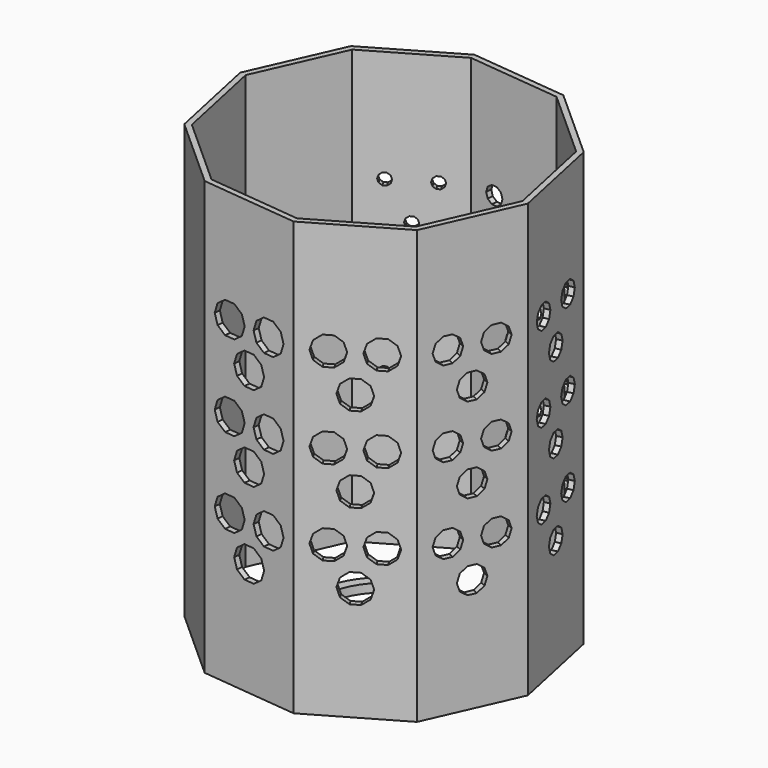
from build123d import *

# Parameters (mm, degrees)
F1_DEPTH  = 152.4
F9_DEPTH  = 2
F10_DEPTH = 2
F11_DEPTH = 2
F12_DEPTH = 2
F13_DEPTH = 2
F14_DEPTH = 2
F15_DEPTH = 25
F17_DEPTH = 3


with BuildPart() as f1:
    # F0 (on Top) → F1 (new body)
    with BuildSketch(Plane.XY):
        Polygon((-11.6076684039, 54.2901660899), (-41.301759976, 37.0988506929), (-55.2199830324, 5.7370352747), (-48.0460494287, -27.8161326237), (-22.5201579683, -50.7444832955), (11.6076684039, -54.2901660899), (41.301759976, -37.0988506929), (55.2199830324, -5.7370352747), (48.0460494287, 27.8161326237), (22.5201579683, 50.7444832955), align=None)
        Polygon((-53.1283170085, 5.5197233325), (-39.7372993708, 35.6935911969), (-11.1679839946, 52.2337204047), (21.6671216817, 48.8223437767), (46.226123314, 26.7624912365), (53.1283170085, -5.5197233325), (39.7372993708, -35.6935911969), (11.1679839946, -52.2337204047), (-21.6671216817, -48.8223437767), (-46.226123314, -26.7624912365), align=None, mode=Mode.SUBTRACT)
    extrude(amount=F1_DEPTH)

    # F8 (on face) → F9 (cut, through all)
    with BuildSketch(Plane(origin=(-26.4547141899, 45.6945083914, 0), x_dir=(-0.8654262953, -0.5010362536, 0), z_dir=(-0.5010362536, 0.8654262953, 0))):
        Polygon((0.6498393925, 42), (-0.6498393925, 42), (-1.7013016167, 41.2360679775), (-2.1029244485, 40), (-1.7013016167, 38.7639320225), (-0.6498393925, 38), (0.6498393925, 38), (1.7013016167, 38.7639320225), (2.1029244485, 40), (1.7013016167, 41.2360679775), align=None)
        Polygon((-6.8501606075, 54.9903810568), (-8.1498393925, 54.9903810568), (-9.2013016167, 54.2264490343), (-9.6029244485, 52.9903810568), (-9.2013016167, 51.7543130793), (-8.1498393925, 50.9903810568), (-6.8501606075, 50.9903810568), (-5.7986983833, 51.7543130793), (-5.3970755515, 52.9903810568), (-5.7986983833, 54.2264490343), align=None)
        Polygon((8.1498393925, 54.9903810568), (6.8501606075, 54.9903810568), (5.7986983833, 54.2264490343), (5.3970755515, 52.9903810568), (5.7986983833, 51.7543130793), (6.8501606075, 50.9903810568), (8.1498393925, 50.9903810568), (9.2013016167, 51.7543130793), (9.6029244485, 52.9903810568), (9.2013016167, 54.2264490343), align=None)
        Polygon((-5.3970755515, 82.9903810568), (-5.7986983833, 84.2264490343), (-6.8501606075, 84.9903810568), (-8.1498393925, 84.9903810568), (-9.2013016167, 84.2264490343), (-9.6029244485, 82.9903810568), (-9.2013016167, 81.7543130793), (-8.1498393925, 80.9903810568), (-6.8501606075, 80.9903810568), (-5.7986983833, 81.7543130793), align=None)
        Polygon((9.2013016167, 81.7543130793), (9.6029244485, 82.9903810568), (9.2013016167, 84.2264490343), (8.1498393925, 84.9903810568), (6.8501606075, 84.9903810568), (5.7986983833, 84.2264490343), (5.3970755515, 82.9903810568), (5.7986983833, 81.7543130793), (6.8501606075, 80.9903810568), (8.1498393925, 80.9903810568), align=None)
        Polygon((-1.7013016167, 71.2360679775), (-2.1029244485, 70), (-1.7013016167, 68.7639320225), (-0.6498393925, 68), (0.6498393925, 68), (1.7013016167, 68.7639320225), (2.1029244485, 70), (1.7013016167, 71.2360679775), (0.6498393925, 72), (-0.6498393925, 72), align=None)
        Polygon((-5.3970755515, 112.9903810568), (-5.7986983833, 114.2264490343), (-6.8501606075, 114.9903810568), (-8.1498393925, 114.9903810568), (-9.2013016167, 114.2264490343), (-9.6029244485, 112.9903810568), (-9.2013016167, 111.7543130793), (-8.1498393925, 110.9903810568), (-6.8501606075, 110.9903810568), (-5.7986983833, 111.7543130793), align=None)
        Polygon((9.2013016167, 111.7543130793), (9.6029244485, 112.9903810568), (9.2013016167, 114.2264490343), (8.1498393925, 114.9903810568), (6.8501606075, 114.9903810568), (5.7986983833, 114.2264490343), (5.3970755515, 112.9903810568), (5.7986983833, 111.7543130793), (6.8501606075, 110.9903810568), (8.1498393925, 110.9903810568), align=None)
        Polygon((-1.7013016167, 101.2360679775), (-2.1029244485, 100), (-1.7013016167, 98.7639320225), (-0.6498393925, 98), (0.6498393925, 98), (1.7013016167, 98.7639320225), (2.1029244485, 100), (1.7013016167, 101.2360679775), (0.6498393925, 102), (-0.6498393925, 102), align=None)
    extrude(amount=-F9_DEPTH, mode=Mode.SUBTRACT)

    # F7 (on face) → F10 (cut, through all)
    with BuildSketch(Plane(origin=(5.4562447822, 52.5173246927, 0), x_dir=(-0.994646301, 0.1033379694, 0), z_dir=(0.1033379694, 0.994646301, 0))):
        Polygon((0.9747590887, 43), (-0.9747590887, 43), (-2.5519524251, 41.8541019662), (-3.1543866727, 40), (-2.5519524251, 38.1458980338), (-0.9747590887, 37), (0.9747590887, 37), (2.5519524251, 38.1458980338), (3.1543866727, 40), (2.5519524251, 41.8541019662), align=None)
        Polygon((-6.5252409113, 55.9903810568), (-8.4747590887, 55.9903810568), (-10.0519524251, 54.844483023), (-10.6543866727, 52.9903810568), (-10.0519524251, 51.1362790905), (-8.4747590887, 49.9903810568), (-6.5252409113, 49.9903810568), (-4.9480475749, 51.1362790905), (-4.3456133273, 52.9903810568), (-4.9480475749, 54.844483023), align=None)
        Polygon((8.4747590887, 55.9903810568), (6.5252409113, 55.9903810568), (4.9480475749, 54.844483023), (4.3456133273, 52.9903810568), (4.9480475749, 51.1362790905), (6.5252409113, 49.9903810568), (8.4747590887, 49.9903810568), (10.0519524251, 51.1362790905), (10.6543866727, 52.9903810568), (10.0519524251, 54.844483023), align=None)
        Polygon((-4.3456133273, 82.9903810568), (-4.9480475749, 84.844483023), (-6.5252409113, 85.9903810568), (-8.4747590887, 85.9903810568), (-10.0519524251, 84.844483023), (-10.6543866727, 82.9903810568), (-10.0519524251, 81.1362790905), (-8.4747590887, 79.9903810568), (-6.5252409113, 79.9903810568), (-4.9480475749, 81.1362790905), align=None)
        Polygon((10.0519524251, 81.1362790905), (10.6543866727, 82.9903810568), (10.0519524251, 84.844483023), (8.4747590887, 85.9903810568), (6.5252409113, 85.9903810568), (4.9480475749, 84.844483023), (4.3456133273, 82.9903810568), (4.9480475749, 81.1362790905), (6.5252409113, 79.9903810568), (8.4747590887, 79.9903810568), align=None)
        Polygon((-2.5519524251, 71.8541019662), (-3.1543866727, 70), (-2.5519524251, 68.1458980338), (-0.9747590887, 67), (0.9747590887, 67), (2.5519524251, 68.1458980338), (3.1543866727, 70), (2.5519524251, 71.8541019662), (0.9747590887, 73), (-0.9747590887, 73), align=None)
        Polygon((-4.3456133273, 112.9903810568), (-4.9480475749, 114.844483023), (-6.5252409113, 115.9903810568), (-8.4747590887, 115.9903810568), (-10.0519524251, 114.844483023), (-10.6543866727, 112.9903810568), (-10.0519524251, 111.1362790905), (-8.4747590887, 109.9903810568), (-6.5252409113, 109.9903810568), (-4.9480475749, 111.1362790905), align=None)
        Polygon((10.0519524251, 111.1362790905), (10.6543866727, 112.9903810568), (10.0519524251, 114.844483023), (8.4747590887, 115.9903810568), (6.5252409113, 115.9903810568), (4.9480475749, 114.844483023), (4.3456133273, 112.9903810568), (4.9480475749, 111.1362790905), (6.5252409113, 109.9903810568), (8.4747590887, 109.9903810568), align=None)
        Polygon((-2.5519524251, 101.8541019662), (-3.1543866727, 100), (-2.5519524251, 98.1458980338), (-0.9747590887, 97), (0.9747590887, 97), (2.5519524251, 98.1458980338), (3.1543866727, 100), (2.5519524251, 101.8541019662), (0.9747590887, 103), (-0.9747590887, 103), align=None)
    extrude(amount=-F10_DEPTH, mode=Mode.SUBTRACT)

    # F6 (on face) → F11 (cut, through all)
    with BuildSketch(Plane(origin=(35.2831036985, 39.2803079596, 0), x_dir=(-0.7439452265, 0.6682406004, 0), z_dir=(0.6682406004, 0.7439452265, 0))):
        Polygon((1.1372189368, 43.5), (-1.1372189368, 43.5), (-2.9772778292, 42.1631189606), (-3.6801177848, 40), (-2.9772778292, 37.8368810394), (-1.1372189368, 36.5), (1.1372189368, 36.5), (2.9772778292, 37.8368810394), (3.6801177848, 40), (2.9772778292, 42.1631189606), align=None)
        Polygon((-6.3627810632, 56.4903810568), (-8.6372189368, 56.4903810568), (-10.4772778292, 55.1535000174), (-11.1801177848, 52.9903810568), (-10.4772778292, 50.8272620961), (-8.6372189368, 49.4903810568), (-6.3627810632, 49.4903810568), (-4.5227221708, 50.8272620961), (-3.8198822152, 52.9903810568), (-4.5227221708, 55.1535000174), align=None)
        Polygon((8.6372189368, 56.4903810568), (6.3627810632, 56.4903810568), (4.5227221708, 55.1535000174), (3.8198822152, 52.9903810568), (4.5227221708, 50.8272620961), (6.3627810632, 49.4903810568), (8.6372189368, 49.4903810568), (10.4772778292, 50.8272620961), (11.1801177848, 52.9903810568), (10.4772778292, 55.1535000174), align=None)
        Polygon((-3.8198822152, 82.9903810568), (-4.5227221708, 85.1535000174), (-6.3627810632, 86.4903810568), (-8.6372189368, 86.4903810568), (-10.4772778292, 85.1535000174), (-11.1801177848, 82.9903810568), (-10.4772778292, 80.8272620961), (-8.6372189368, 79.4903810568), (-6.3627810632, 79.4903810568), (-4.5227221708, 80.8272620961), align=None)
        Polygon((10.4772778292, 80.8272620961), (11.1801177848, 82.9903810568), (10.4772778292, 85.1535000174), (8.6372189368, 86.4903810568), (6.3627810632, 86.4903810568), (4.5227221708, 85.1535000174), (3.8198822152, 82.9903810568), (4.5227221708, 80.8272620961), (6.3627810632, 79.4903810568), (8.6372189368, 79.4903810568), align=None)
        Polygon((-2.9772778292, 72.1631189606), (-3.6801177848, 70), (-2.9772778292, 67.8368810394), (-1.1372189368, 66.5), (1.1372189368, 66.5), (2.9772778292, 67.8368810394), (3.6801177848, 70), (2.9772778292, 72.1631189606), (1.1372189368, 73.5), (-1.1372189368, 73.5), align=None)
        Polygon((-3.8198822152, 112.9903810568), (-4.5227221708, 115.1535000174), (-6.3627810632, 116.4903810568), (-8.6372189368, 116.4903810568), (-10.4772778292, 115.1535000174), (-11.1801177848, 112.9903810568), (-10.4772778292, 110.8272620961), (-8.6372189368, 109.4903810568), (-6.3627810632, 109.4903810568), (-4.5227221708, 110.8272620961), align=None)
        Polygon((10.4772778292, 110.8272620961), (11.1801177848, 112.9903810568), (10.4772778292, 115.1535000174), (8.6372189368, 116.4903810568), (6.3627810632, 116.4903810568), (4.5227221708, 115.1535000174), (3.8198822152, 112.9903810568), (4.5227221708, 110.8272620961), (6.3627810632, 109.4903810568), (8.6372189368, 109.4903810568), align=None)
        Polygon((-2.9772778292, 102.1631189606), (-3.6801177848, 100), (-2.9772778292, 97.8368810394), (-1.1372189368, 96.5), (1.1372189368, 96.5), (2.9772778292, 97.8368810394), (3.6801177848, 100), (2.9772778292, 102.1631189606), (1.1372189368, 103.5), (-1.1372189368, 103.5), align=None)
    extrude(amount=-F11_DEPTH, mode=Mode.SUBTRACT)

    # F5 (on face) → F12 (cut, through all)
    with BuildSketch(Plane(origin=(51.6330162305, 11.0395486745, 0), x_dir=(-0.2090823613, 0.9778980347, 0), z_dir=(0.9778980347, 0.2090823613, 0))):
        Polygon((1.2996787849, 44), (-1.2996787849, 44), (-3.4026032334, 42.472135955), (-4.205848897, 40), (-3.4026032334, 37.527864045), (-1.2996787849, 36), (1.2996787849, 36), (3.4026032334, 37.527864045), (4.205848897, 40), (3.4026032334, 42.472135955), align=None)
        Polygon((-6.2003212151, 56.9903810568), (-8.7996787849, 56.9903810568), (-10.9026032334, 55.4625170118), (-11.705848897, 52.9903810568), (-10.9026032334, 50.5182451018), (-8.7996787849, 48.9903810568), (-6.2003212151, 48.9903810568), (-4.0973967666, 50.5182451018), (-3.294151103, 52.9903810568), (-4.0973967666, 55.4625170118), align=None)
        Polygon((8.7996787849, 56.9903810568), (6.2003212151, 56.9903810568), (4.0973967666, 55.4625170118), (3.294151103, 52.9903810568), (4.0973967666, 50.5182451018), (6.2003212151, 48.9903810568), (8.7996787849, 48.9903810568), (10.9026032334, 50.5182451018), (11.705848897, 52.9903810568), (10.9026032334, 55.4625170118), align=None)
        Polygon((-3.294151103, 82.9903810568), (-4.0973967666, 85.4625170118), (-6.2003212151, 86.9903810568), (-8.7996787849, 86.9903810568), (-10.9026032334, 85.4625170118), (-11.705848897, 82.9903810568), (-10.9026032334, 80.5182451018), (-8.7996787849, 78.9903810568), (-6.2003212151, 78.9903810568), (-4.0973967666, 80.5182451018), align=None)
        Polygon((10.9026032334, 80.5182451018), (11.705848897, 82.9903810568), (10.9026032334, 85.4625170118), (8.7996787849, 86.9903810568), (6.2003212151, 86.9903810568), (4.0973967666, 85.4625170118), (3.294151103, 82.9903810568), (4.0973967666, 80.5182451018), (6.2003212151, 78.9903810568), (8.7996787849, 78.9903810568), align=None)
        Polygon((-3.4026032334, 72.472135955), (-4.205848897, 70), (-3.4026032334, 67.527864045), (-1.2996787849, 66), (1.2996787849, 66), (3.4026032334, 67.527864045), (4.205848897, 70), (3.4026032334, 72.472135955), (1.2996787849, 74), (-1.2996787849, 74), align=None)
        Polygon((-3.294151103, 112.9903810568), (-4.0973967666, 115.4625170118), (-6.2003212151, 116.9903810568), (-8.7996787849, 116.9903810568), (-10.9026032334, 115.4625170118), (-11.705848897, 112.9903810568), (-10.9026032334, 110.5182451018), (-8.7996787849, 108.9903810568), (-6.2003212151, 108.9903810568), (-4.0973967666, 110.5182451018), align=None)
        Polygon((10.9026032334, 110.5182451018), (11.705848897, 112.9903810568), (10.9026032334, 115.4625170118), (8.7996787849, 116.9903810568), (6.2003212151, 116.9903810568), (4.0973967666, 115.4625170118), (3.294151103, 112.9903810568), (4.0973967666, 110.5182451018), (6.2003212151, 108.9903810568), (8.7996787849, 108.9903810568), align=None)
        Polygon((-3.4026032334, 102.472135955), (-4.205848897, 100), (-3.4026032334, 97.527864045), (-1.2996787849, 96), (1.2996787849, 96), (3.4026032334, 97.527864045), (4.205848897, 100), (3.4026032334, 102.472135955), (1.2996787849, 104), (-1.2996787849, 104), align=None)
    extrude(amount=-F12_DEPTH, mode=Mode.SUBTRACT)

    # F4 (on face) → F13 (cut, through all)
    with BuildSketch(Plane(origin=(48.2608715042, -21.4179429838, 0), x_dir=(0.4056428595, 0.9140316573, 0), z_dir=(0.9140316573, -0.4056428595, 0))):
        Polygon((1.3670554922, 44.5), (-1.5572217739, 44.5), (-3.9230117785, 42.7811529494), (-4.8266631499, 40), (-3.9230117785, 37.2188470506), (-1.5572217739, 35.5), (1.3670554922, 35.5), (3.7328454967, 37.2188470506), (4.6364968682, 40), (3.7328454967, 42.7811529494), align=None)
        Polygon((-6.1329445078, 57.4903810568), (-9.0572217739, 57.4903810568), (-11.4230117785, 55.7715340061), (-12.3266631499, 52.9903810568), (-11.4230117785, 50.2092281074), (-9.0572217739, 48.4903810568), (-6.1329445078, 48.4903810568), (-3.7671545033, 50.2092281074), (-2.8635031318, 52.9903810568), (-3.7671545033, 55.7715340061), align=None)
        Polygon((8.8670554922, 57.4903810568), (5.9427782261, 57.4903810568), (3.5769882215, 55.7715340061), (2.6733368501, 52.9903810568), (3.5769882215, 50.2092281074), (5.9427782261, 48.4903810568), (8.8670554922, 48.4903810568), (11.2328454967, 50.2092281074), (12.1364968682, 52.9903810568), (11.2328454967, 55.7715340061), align=None)
        Polygon((-2.8635031318, 82.9903810568), (-3.7671545033, 85.7715340061), (-6.1329445078, 87.4903810568), (-9.0572217739, 87.4903810568), (-11.4230117785, 85.7715340061), (-12.3266631499, 82.9903810568), (-11.4230117785, 80.2092281074), (-9.0572217739, 78.4903810568), (-6.1329445078, 78.4903810568), (-3.7671545033, 80.2092281074), align=None)
        Polygon((11.2328454967, 80.2092281074), (12.1364968682, 82.9903810568), (11.2328454967, 85.7715340061), (8.8670554922, 87.4903810568), (5.9427782261, 87.4903810568), (3.5769882215, 85.7715340061), (2.6733368501, 82.9903810568), (3.5769882215, 80.2092281074), (5.9427782261, 78.4903810568), (8.8670554922, 78.4903810568), align=None)
        Polygon((-3.9230117785, 72.7811529494), (-4.8266631499, 70), (-3.9230117785, 67.2188470506), (-1.5572217739, 65.5), (1.3670554922, 65.5), (3.7328454967, 67.2188470506), (4.6364968682, 70), (3.7328454967, 72.7811529494), (1.3670554922, 74.5), (-1.5572217739, 74.5), align=None)
        Polygon((-2.8635031318, 112.9903810568), (-3.7671545033, 115.7715340061), (-6.1329445078, 117.4903810568), (-9.0572217739, 117.4903810568), (-11.4230117785, 115.7715340061), (-12.3266631499, 112.9903810568), (-11.4230117785, 110.2092281074), (-9.0572217739, 108.4903810568), (-6.1329445078, 108.4903810568), (-3.7671545033, 110.2092281074), align=None)
        Polygon((11.2328454967, 110.2092281074), (12.1364968682, 112.9903810568), (11.2328454967, 115.7715340061), (8.8670554922, 117.4903810568), (5.9427782261, 117.4903810568), (3.5769882215, 115.7715340061), (2.6733368501, 112.9903810568), (3.5769882215, 110.2092281074), (5.9427782261, 108.4903810568), (8.8670554922, 108.4903810568), align=None)
        Polygon((-3.9230117785, 102.7811529494), (-4.8266631499, 100), (-3.9230117785, 97.2188470506), (-1.5572217739, 95.5), (1.3670554922, 95.5), (3.7328454967, 97.2188470506), (4.6364968682, 100), (3.7328454967, 102.7811529494), (1.3670554922, 104.5), (-1.5572217739, 104.5), align=None)
    extrude(amount=-F13_DEPTH, mode=Mode.SUBTRACT)

    # F3 (on face) → F14 (cut, through all)
    with BuildSketch(Plane(origin=(26.4547141899, -45.6945083914, 0), x_dir=(0.8654262953, 0.5010362536, 0), z_dir=(0.5010362536, -0.8654262953, 0))):
        Polygon((1.6245984812, 45), (-1.6245984812, 45), (-4.2532540418, 43.0901699437), (-5.2573111212, 40), (-4.2532540418, 36.9098300563), (-1.6245984812, 35), (1.6245984812, 35), (4.2532540418, 36.9098300563), (5.2573111212, 40), (4.2532540418, 43.0901699437), align=None)
        Polygon((-5.8754015188, 57.9903810568), (-9.1245984812, 57.9903810568), (-11.7532540418, 56.0805510005), (-12.7573111212, 52.9903810568), (-11.7532540418, 49.900211113), (-9.1245984812, 47.9903810568), (-5.8754015188, 47.9903810568), (-3.2467459582, 49.900211113), (-2.2426888788, 52.9903810568), (-3.2467459582, 56.0805510005), align=None)
        Polygon((9.1245984812, 57.9903810568), (5.8754015188, 57.9903810568), (3.2467459582, 56.0805510005), (2.2426888788, 52.9903810568), (3.2467459582, 49.900211113), (5.8754015188, 47.9903810568), (9.1245984812, 47.9903810568), (11.7532540418, 49.900211113), (12.7573111212, 52.9903810568), (11.7532540418, 56.0805510005), align=None)
        Polygon((-2.2426888788, 82.9903810568), (-3.2467459582, 86.0805510005), (-5.8754015188, 87.9903810568), (-9.1245984812, 87.9903810568), (-11.7532540418, 86.0805510005), (-12.7573111212, 82.9903810568), (-11.7532540418, 79.900211113), (-9.1245984812, 77.9903810568), (-5.8754015188, 77.9903810568), (-3.2467459582, 79.900211113), align=None)
        Polygon((11.7532540418, 79.900211113), (12.7573111212, 82.9903810568), (11.7532540418, 86.0805510005), (9.1245984812, 87.9903810568), (5.8754015188, 87.9903810568), (3.2467459582, 86.0805510005), (2.2426888788, 82.9903810568), (3.2467459582, 79.900211113), (5.8754015188, 77.9903810568), (9.1245984812, 77.9903810568), align=None)
        Polygon((-4.2532540418, 73.0901699437), (-5.2573111212, 70), (-4.2532540418, 66.9098300563), (-1.6245984812, 65), (1.6245984812, 65), (4.2532540418, 66.9098300563), (5.2573111212, 70), (4.2532540418, 73.0901699437), (1.6245984812, 75), (-1.6245984812, 75), align=None)
        Polygon((-2.2426888788, 112.9903810568), (-3.2467459582, 116.0805510005), (-5.8754015188, 117.9903810568), (-9.1245984812, 117.9903810568), (-11.7532540418, 116.0805510005), (-12.7573111212, 112.9903810568), (-11.7532540418, 109.900211113), (-9.1245984812, 107.9903810568), (-5.8754015188, 107.9903810568), (-3.2467459582, 109.900211113), align=None)
        Polygon((11.7532540418, 109.900211113), (12.7573111212, 112.9903810568), (11.7532540418, 116.0805510005), (9.1245984812, 117.9903810568), (5.8754015188, 117.9903810568), (3.2467459582, 116.0805510005), (2.2426888788, 112.9903810568), (3.2467459582, 109.900211113), (5.8754015188, 107.9903810568), (9.1245984812, 107.9903810568), align=None)
        Polygon((-4.2532540418, 103.0901699437), (-5.2573111212, 100), (-4.2532540418, 96.9098300563), (-1.6245984812, 95), (1.6245984812, 95), (4.2532540418, 96.9098300563), (5.2573111212, 100), (4.2532540418, 103.0901699437), (1.6245984812, 105), (-1.6245984812, 105), align=None)
    extrude(amount=-F14_DEPTH, mode=Mode.SUBTRACT)

    # F2 (on face) → F15 (cut)
    with BuildSketch(Plane(origin=(-5.4562447822, -52.5173246927, 0), x_dir=(0.994646301, -0.1033379694, 0), z_dir=(-0.1033379694, -0.994646301, 0))):
        Polygon((1.7870583293, 45.5), (-1.7870583293, 45.5), (-4.6785794459, 43.3991869381), (-5.7830422333, 40), (-4.6785794459, 36.6008130619), (-1.7870583293, 34.5), (1.7870583293, 34.5), (4.6785794459, 36.6008130619), (5.7830422333, 40), (4.6785794459, 43.3991869381), align=None)
        Polygon((-5.7129416707, 58.4903810568), (-9.2870583293, 58.4903810568), (-12.1785794459, 56.3895679949), (-13.2830422333, 52.9903810568), (-12.1785794459, 49.5911941186), (-9.2870583293, 47.4903810568), (-5.7129416707, 47.4903810568), (-2.8214205541, 49.5911941186), (-1.7169577667, 52.9903810568), (-2.8214205541, 56.3895679949), align=None)
        Polygon((9.2870583293, 58.4903810568), (5.7129416707, 58.4903810568), (2.8214205541, 56.3895679949), (1.7169577667, 52.9903810568), (2.8214205541, 49.5911941186), (5.7129416707, 47.4903810568), (9.2870583293, 47.4903810568), (12.1785794459, 49.5911941186), (13.2830422333, 52.9903810568), (12.1785794459, 56.3895679949), align=None)
        Polygon((-1.7169577667, 82.9903810568), (-2.8214205541, 86.3895679949), (-5.7129416707, 88.4903810568), (-9.2870583293, 88.4903810568), (-12.1785794459, 86.3895679949), (-13.2830422333, 82.9903810568), (-12.1785794459, 79.5911941186), (-9.2870583293, 77.4903810568), (-5.7129416707, 77.4903810568), (-2.8214205541, 79.5911941186), align=None)
        Polygon((12.1785794459, 79.5911941186), (13.2830422333, 82.9903810568), (12.1785794459, 86.3895679949), (9.2870583293, 88.4903810568), (5.7129416707, 88.4903810568), (2.8214205541, 86.3895679949), (1.7169577667, 82.9903810568), (2.8214205541, 79.5911941186), (5.7129416707, 77.4903810568), (9.2870583293, 77.4903810568), align=None)
        Polygon((-4.6785794459, 73.3991869381), (-5.7830422333, 70), (-4.6785794459, 66.6008130619), (-1.7870583293, 64.5), (1.7870583293, 64.5), (4.6785794459, 66.6008130619), (5.7830422333, 70), (4.6785794459, 73.3991869381), (1.7870583293, 75.5), (-1.7870583293, 75.5), align=None)
        Polygon((-1.7169577667, 112.9903810568), (-2.8214205541, 116.3895679949), (-5.7129416707, 118.4903810568), (-9.2870583293, 118.4903810568), (-12.1785794459, 116.3895679949), (-13.2830422333, 112.9903810568), (-12.1785794459, 109.5911941186), (-9.2870583293, 107.4903810568), (-5.7129416707, 107.4903810568), (-2.8214205541, 109.5911941186), align=None)
        Polygon((12.1785794459, 109.5911941186), (13.2830422333, 112.9903810568), (12.1785794459, 116.3895679949), (9.2870583293, 118.4903810568), (5.7129416707, 118.4903810568), (2.8214205541, 116.3895679949), (1.7169577667, 112.9903810568), (2.8214205541, 109.5911941186), (5.7129416707, 107.4903810568), (9.2870583293, 107.4903810568), align=None)
        Polygon((-4.6785794459, 103.3991869381), (-5.7830422333, 100), (-4.6785794459, 96.6008130619), (-1.7870583293, 94.5), (1.7870583293, 94.5), (4.6785794459, 96.6008130619), (5.7830422333, 100), (4.6785794459, 103.3991869381), (1.7870583293, 105.5), (-1.7870583293, 105.5), align=None)
    extrude(amount=-F15_DEPTH, mode=Mode.SUBTRACT)

    # F16 (on Top) → F17 (join)
    with BuildSketch(Plane.XY):
        with BuildLine():
            ThreePointArc((-24.5375088008, -7.298675349), (-25.0341896875, -5.3525084482), (-25.3767653989, -3.3733926379))
            Line((-25.3767653989, -3.3733926379), (-50.0968484602, -8.6587425964))
            Line((-50.0968484602, -8.6587425964), (-49.2575918622, -12.5840253076))
            Line((-49.2575918622, -12.5840253076), (-24.5375088008, -7.298675349))
        make_face()
        with BuildLine():
            ThreePointArc((-0.6410544681, -25.5919723579), (-2.6454520156, -25.4629453055), (-4.6335647203, -25.1771737489))
            Line((-4.6335647203, -25.1771737489), (-7.2458239696, -50.3206327862))
            Line((-7.2458239696, -50.3206327862), (-3.2533137174, -50.7354313952))
            Line((-3.2533137174, -50.7354313952), (-0.6410544681, -25.5919723579))
        make_face()
        with BuildLine():
            Line((19.4773775724, -10.839733018), (20.2915027578, -9.0052715578))
            ThreePointArc((20.2915027578, -9.0052715578), (11.1230057607, -19.2124632165), (-2.2941006974, -22.081148113))
            Line((-2.2941006974, -22.081148113), (-0.2978477937, -22.2885471867))
            Line((-0.2978477937, -22.2885471867), (-0.6410544681, -25.5919723579))
            ThreePointArc((-0.6410544681, -25.5919723579), (12.8265280921, -22.1549131595), (22.5130649127, -12.1869564796))
            Line((22.5130649127, -12.1869564796), (19.4773775724, -10.839733018))
        make_face()
        with BuildLine():
            Line((-0.2978477937, -22.2885471867), (-2.2941006974, -22.081148113))
            Line((-2.2941006974, -22.081148113), (-4.2903580459, -21.8737485776))
            Line((-4.2903580459, -21.8737485776), (-4.6335647203, -25.1771737489))
            ThreePointArc((-4.6335647203, -25.1771737489), (-2.6454520156, -25.4629453055), (-0.6410544681, -25.5919723579))
            Line((-0.6410544681, -25.5919723579), (-0.2978477937, -22.2885471867))
        make_face()
        with BuildLine():
            Line((-4.2903580459, -21.8737485776), (-2.2941006974, -22.081148113))
            ThreePointArc((-2.2941006974, -22.081148113), (-14.8349405531, -16.5155847243), (-21.7093364014, -4.6416282714))
            Line((-21.7093364014, -4.6416282714), (-21.2897080706, -6.6042697755))
            Line((-21.2897080706, -6.6042697755), (-24.5375088008, -7.298675349))
            ThreePointArc((-24.5375088008, -7.298675349), (-17.106959369, -19.0449977986), (-4.6335647203, -25.1771737489))
            Line((-4.6335647203, -25.1771737489), (-4.2903580459, -21.8737485776))
        make_face()
        with BuildLine():
            Line((-21.2897080706, -6.6042697755), (-21.7093364014, -4.6416282714))
            Line((-21.7093364014, -4.6416282714), (-22.1289646687, -2.6789870644))
            Line((-22.1289646687, -2.6789870644), (-25.3767653989, -3.3733926379))
            ThreePointArc((-25.3767653989, -3.3733926379), (-25.0341896875, -5.3525084482), (-24.5375088008, -7.298675349))
            Line((-24.5375088008, -7.298675349), (-21.2897080706, -6.6042697755))
        make_face()
        with BuildLine():
            ThreePointArc((-21.7093364014, -4.6416282714), (-20.2915027828, 9.0052715016), (-11.1230049239, 19.212463701))
            Line((-11.1230049239, 19.212463701), (-12.8599154045, 18.2068839945))
            Line((-12.8599154045, 18.2068839945), (-14.5239599701, 21.0811429194))
            ThreePointArc((-14.5239599701, 21.0811429194), (-23.3992104263, 10.3844572043), (-25.3767653989, -3.3733926379))
            Line((-25.3767653989, -3.3733926379), (-22.1289646687, -2.6789870644))
            Line((-22.1289646687, -2.6789870644), (-21.7093364014, -4.6416282714))
        make_face()
        with BuildLine():
            Line((-12.8599154045, 18.2068839945), (-11.1230049239, 19.212463701))
            Line((-11.1230049239, 19.212463701), (-9.3860942552, 20.2180435164))
            Line((-9.3860942552, 20.2180435164), (-11.0501388208, 23.0923024413))
            ThreePointArc((-11.0501388208, 23.0923024413), (-12.8265280921, 22.1549131595), (-14.5239599701, 21.0811429194))
            Line((-14.5239599701, 21.0811429194), (-12.8599154045, 18.2068839945))
        make_face()
        with BuildLine():
            ThreePointArc((-14.5239599701, 21.0811429194), (-12.8265280921, 22.1549131595), (-11.0501388208, 23.0923024413))
            Line((-11.0501388208, 23.0923024413), (-23.7157311081, 44.9692355618))
            Line((-23.7157311081, 44.9692355618), (-27.1895522574, 42.9580760398))
            Line((-27.1895522574, 42.9580760398), (-14.5239599701, 21.0811429194))
        make_face()
        with BuildLine():
            ThreePointArc((-11.1230049239, 19.212463701), (2.2941029526, 22.0811478787), (14.8349414576, 16.5155839118))
            Line((14.8349414576, 16.5155839118), (13.3418432582, 17.8567429134))
            Line((13.3418432582, 17.8567429134), (15.561207888, 20.3275381949))
            ThreePointArc((15.561207888, 20.3275381949), (2.6454520156, 25.4629453055), (-11.0501388208, 23.0923024413))
            Line((-11.0501388208, 23.0923024413), (-9.3860942552, 20.2180435164))
            Line((-9.3860942552, 20.2180435164), (-11.1230049239, 19.212463701))
        make_face()
        with BuildLine():
            ThreePointArc((15.561207888, 20.3275381949), (17.106959369, 19.0449977986), (18.5474040273, 17.6452204251))
            Line((18.5474040273, 17.6452204251), (35.4397205674, 36.4512586217))
            Line((35.4397205674, 36.4512586217), (32.4535244282, 39.1335763915))
            Line((32.4535244282, 39.1335763915), (15.561207888, 20.3275381949))
        make_face()
        with BuildLine():
            Line((13.3418432582, 17.8567429134), (14.8349414576, 16.5155839118))
            Line((14.8349414576, 16.5155839118), (16.3280393974, 15.1744251436))
            Line((16.3280393974, 15.1744251436), (18.5474040273, 17.6452204251))
            ThreePointArc((18.5474040273, 17.6452204251), (17.106959369, 19.0449977986), (15.561207888, 20.3275381949))
            Line((15.561207888, 20.3275381949), (13.3418432582, 17.8567429134))
        make_face()
        with BuildLine():
            ThreePointArc((14.8349414576, 16.5155839118), (20.2753014818, 9.0416895446), (22.2, 0))
            ThreePointArc((22.2, 0), (21.7176352445, -4.6026426527), (20.2915027578, -9.0052715578))
            Line((20.2915027578, -9.0052715578), (21.1056280106, -7.1708099457))
            Line((21.1056280106, -7.1708099457), (24.1413153509, -8.5180334073))
            ThreePointArc((24.1413153509, -8.5180334073), (25.2326938017, -4.3210141759), (25.6, 0))
            ThreePointArc((25.6, 0), (23.7715538312, 9.5012224714), (18.5474040273, 17.6452204251))
            Line((18.5474040273, 17.6452204251), (16.3280393974, 15.1744251436))
            Line((16.3280393974, 15.1744251436), (14.8349414576, 16.5155839118))
        make_face()
        with BuildLine():
            Line((21.1056280106, -7.1708099457), (20.2915027578, -9.0052715578))
            Line((20.2915027578, -9.0052715578), (19.4773775724, -10.839733018))
            Line((19.4773775724, -10.839733018), (22.5130649127, -12.1869564796))
            ThreePointArc((22.5130649127, -12.1869564796), (23.3992104263, -10.3844572043), (24.1413153509, -8.5180334073))
            Line((24.1413153509, -8.5180334073), (21.1056280106, -7.1708099457))
        make_face()
        with BuildLine():
            ThreePointArc((24.1413153509, -8.5180334073), (23.3992104263, -10.3844572043), (22.5130649127, -12.1869564796))
            Line((22.5130649127, -12.1869564796), (45.6186829705, -22.4411188009))
            Line((45.6186829705, -22.4411188009), (47.2469334087, -18.7721957286))
            Line((47.2469334087, -18.7721957286), (24.1413153509, -8.5180334073))
        make_face()
    extrude(amount=F17_DEPTH)


solid = f1.part
